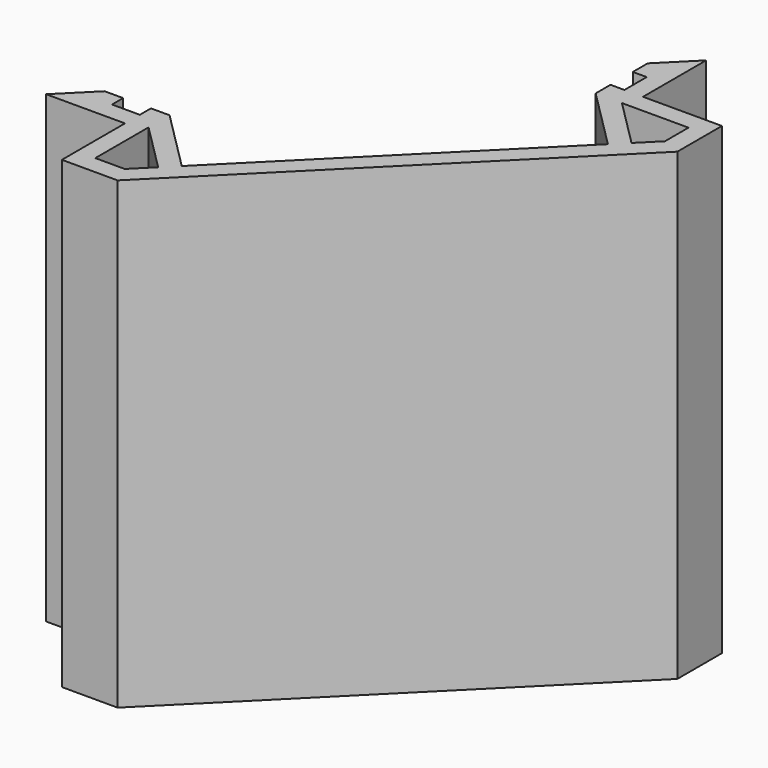
from build123d import *

# Parameters (mm, degrees)
F1_DEPTH = 20
F3_DEPTH = 50
F5_DEPTH = 20


with BuildPart() as f1:
    # F0 (on Top) → F1 (new body)
    with BuildSketch(Plane.XY):
        Polygon((-19.75, -17.7500005811), (-19.75, -19.75), (-13.75, -19.75), (19.75, 13.75), (19.75, 19.75), (17.7500005811, 19.75), (17.7500005811, 14.578426884), (-14.578426884, -17.7500005811), align=None)
    extrude(amount=F1_DEPTH)

    # F2 (on face) → F3 (join)
    with BuildSketch(Plane.XY.offset(20)):
        Polygon((-19.75, -19.75), (-13.75, -19.75), (19.75, 13.75), (19.75, 19.75), (11.25, 19.75), (11.25, 28.25), (7.75, 24.75), (7.75, 22.75), (9.25, 22.75), (9.25, 19.7500005811), (7.75, 19.7500005811), (7.75, 17.7500005811), (14.3357871391, 11.164213442), (-11.164213442, -14.3357871391), (-17.7500005811, -7.75), (-19.7500005811, -7.75), (-19.7500005811, -9.25), (-22.75, -9.25), (-22.75, -7.75), (-24.75, -7.75), (-28.25, -11.25), (-19.75, -11.25), align=None)
        Polygon((-14.578426884, -17.7500005811), (-17.7500005811, -17.7500005811), (-17.7500005811, -10.5784263029), (-12.5784265935, -15.7500002906), align=None, mode=Mode.SUBTRACT)
        Polygon((10.5784263029, 17.7500005811), (17.7500005811, 17.7500005811), (17.7500005811, 14.578426884), (15.7500002906, 12.5784265935), align=None, mode=Mode.SUBTRACT)
    extrude(amount=F3_DEPTH)

    # F5 (cut, through all): a face of the model
    f5_faces = [f1.faces().sort_by_distance(p)[0] for p in [
        (2.0288816122, -2.0288816122, 0),
    ]]
    extrude(f5_faces, amount=-F5_DEPTH, mode=Mode.SUBTRACT)


solid = f1.part
